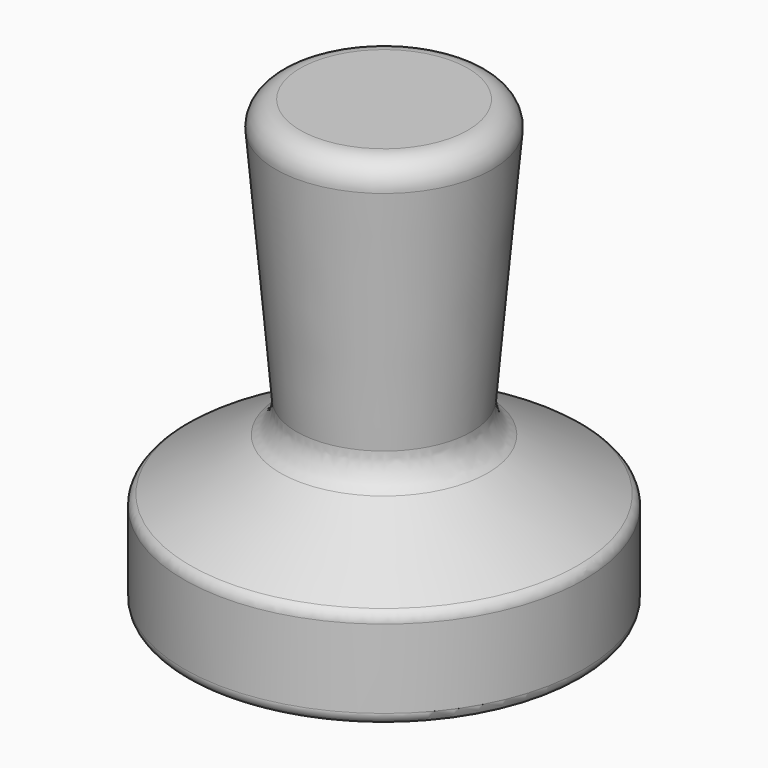
from build123d import *

# Parameters (mm, degrees)
F2_R = 1.5
F3_R = 4
F4_R = 3


with BuildPart() as f1:
    # F0 (on Front) → F1 (revolve)
    with BuildSketch(Plane.XZ):
        Polygon((0, 55), (0, 0), (24.5, 0), (24.5, 12), (10.5, 20.082904), (13.55485, 55), align=None)
    revolve(axis=Axis((0, 0, 27.5), (0, 0, 1)))

    # F2
    f2_edges = [f1.edges().sort_by_distance(p)[0] for p in [
        (-24.5, 0, 0),
        (-24.5, 0, 12),
    ]]
    fillet(f2_edges, radius=F2_R)

    # F3
    f3_edges = [f1.edges().sort_by_distance(p)[0] for p in [
        (-10.5, 0, 20.082904),
    ]]
    fillet(f3_edges, radius=F3_R)

    # F4
    f4_edges = [f1.edges().sort_by_distance(p)[0] for p in [
        (-13.55485, 0, 55),
    ]]
    fillet(f4_edges, radius=F4_R)


solid = f1.part
